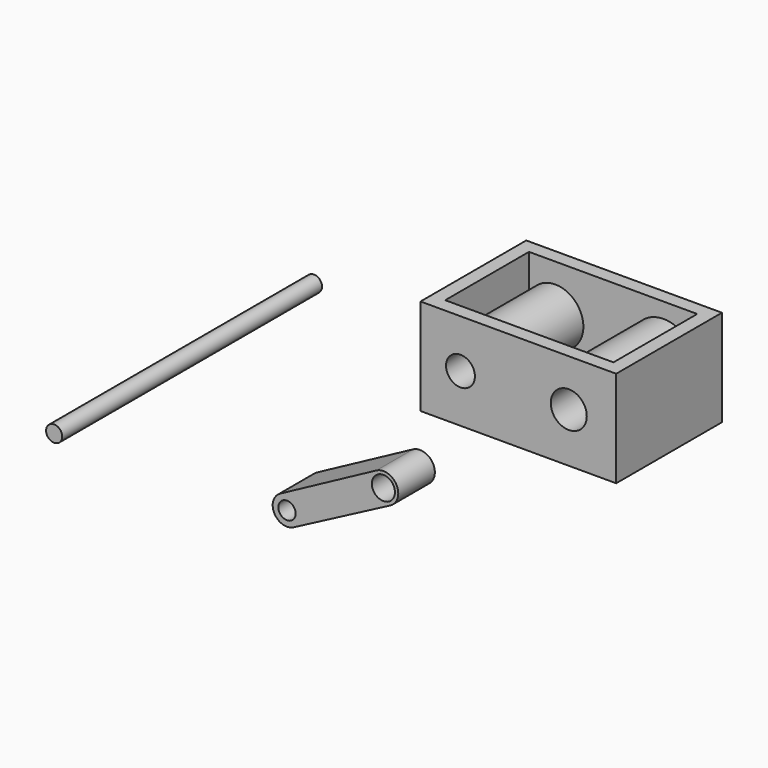
from build123d import *

# Parameters (mm, degrees)
F0_W     = 108.6633130908
F0_H     = 53.5634607077
F0_R     = 8.0111805039
F0_R_2   = 10.0003279272
F1_DEPTH = 73.406
F2_T     = -7.62
F3_R     = 4.4888128734
F4_DEPTH = 180.34
F5_R     = 4.802952677
F5_R_2   = 6.4232426475
F6_DEPTH = 25.4


with BuildPart() as f1:
    # F0 (on Front) → F1 (new body)
    with BuildSketch(Plane.XZ):
        with Locations((54.3316565454, 26.7817303538)):
            Rectangle(F0_W, F0_H)
        with Locations((22.1950598061, 26.7526358366)):
            Circle(F0_R, mode=Mode.SUBTRACT)
        with Locations((82.3309123516, 27.4745319039)):
            Circle(F0_R_2, mode=Mode.SUBTRACT)
    extrude(amount=-F1_DEPTH)

    # F2
    f2_openings = [f1.faces().sort_by_distance(p)[0] for p in [
        (54.331657, 36.703, 53.563461),
    ]]
    offset(amount=F2_T, openings=f2_openings, kind=Kind.INTERSECTION)


with BuildPart() as f4:
    # F3 (on Front) → F4 (new body)
    with BuildSketch(Plane.XZ):
        with Locations((-59.1868311167, 43.025854975)):
            Circle(F3_R)
    extrude(amount=F4_DEPTH)


with BuildPart() as f6:
    # F5 (on Front) → F6 (new body)
    with BuildSketch(Plane.XZ):
        with BuildLine():
            Line((-4.2006061412, -20.1027095318), (-57.5881265104, -48.7737841904))
            ThreePointArc((-57.5881265104, -48.7737841904), (-60.9086076306, -59.4127066545), (-50.3379702568, -62.9445463419))
            Line((-50.3379702568, -62.9445463419), (3.7086585071, -34.6030220389))
            ThreePointArc((3.7086585071, -34.6030220389), (6.9571331768, -23.4238967044), (-4.2006061412, -20.1027095318))
        make_face()
        with Locations((-53.8218191704, -55.7869084706)):
            Circle(F5_R, mode=Mode.SUBTRACT)
        with Locations((-0.2931767349, -27.3786128421)):
            Circle(F5_R_2, mode=Mode.SUBTRACT)
    extrude(amount=F6_DEPTH)


solid = Compound([f1.part, f4.part, f6.part])
